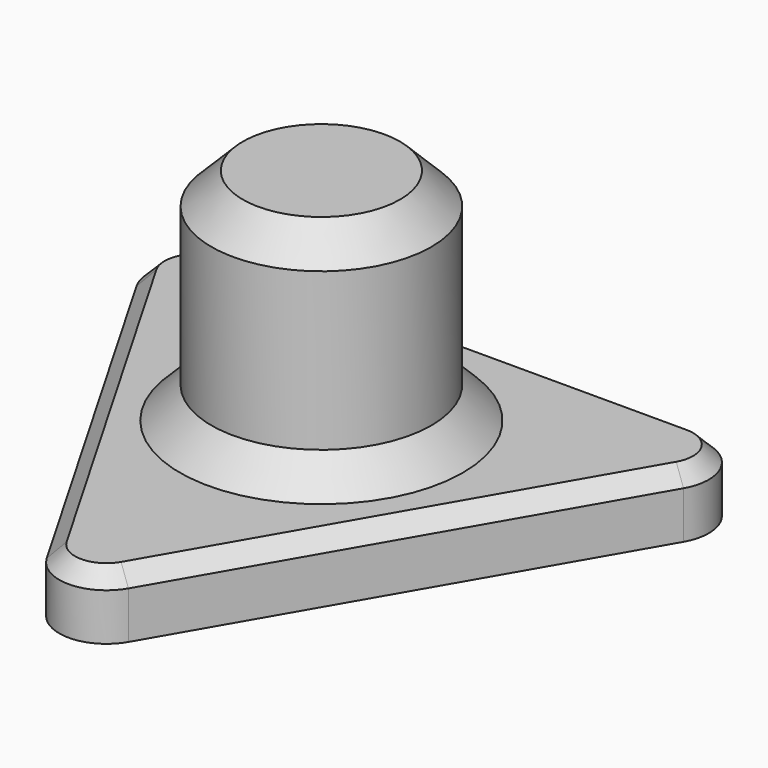
from build123d import *

# Parameters (mm, degrees)
F1_DEPTH = 4
F2_R     = 7
F3_DEPTH = 14
F4_R     = 3
F5_SIZE  = 1
F6_SIZE  = 2


with BuildPart() as f1:
    # F0 (on Top) → F1 (new body)
    with BuildSketch(Plane.XY):
        Polygon((40, 0), (0, 0), (20, -34.641016), align=None)
    extrude(amount=F1_DEPTH)

    # F2 (on face) → F3 (join)
    with BuildSketch(Plane.XY.offset(4)):
        with Locations((20, -11.547005)):
            Circle(F2_R)
    extrude(amount=F3_DEPTH)

    # F4
    f4_edges = [f1.edges().sort_by_distance(p)[0] for p in [
        (20, -34.641016, 2),
        (40, 0, 2),
        (0, 0, 2),
    ]]
    fillet(f4_edges, radius=F4_R)

    # F5
    f5_edges = [f1.edges().sort_by_distance(p)[0] for p in [
        (30, -17.320508, 4),
    ]]
    chamfer(f5_edges, length=F5_SIZE)

    # F6
    f6_edges = [f1.edges().sort_by_distance(p)[0] for p in [
        (13, -11.547005, 18),
        (13, -11.547005, 4),
    ]]
    chamfer(f6_edges, length=F6_SIZE)


solid = f1.part
